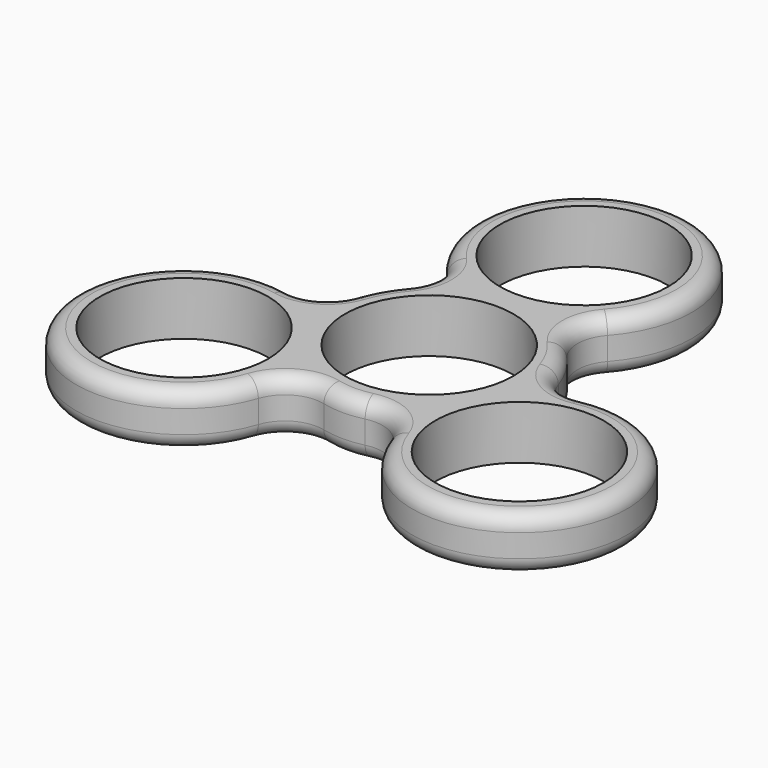
from build123d import *

# Parameters (mm, degrees)
F0_R     = 11
F1_DEPTH = 7
F2_R     = 2


with BuildPart() as f1:
    # F0 (on Top) → F1 (new body)
    with BuildSketch(Plane.XY):
        with BuildLine():
            ThreePointArc((10.487605, 9.370323), (9.223522, 12.694561), (10.489131, 16.018218))
            ThreePointArc((10.489131, 16.018218), (-0.003039, 39.39956), (-10.483131, 16.012801))
            ThreePointArc((-10.483131, 16.012801), (-9.216006, 12.731018), (-10.423922, 9.426984))
            ThreePointArc((-10.423922, 9.426984), (-12.131828, 7.014662), (-13.359285, 4.325872))
            ThreePointArc((-13.359285, 4.325872), (-15.61665, 1.616913), (-19.100401, 1.071355))
            ThreePointArc((-19.100401, 1.071355), (-34.133291, -19.678485), (-8.638072, -17.121633))
            ThreePointArc((-8.638072, -17.121633), (-6.302408, -14.321583), (-2.686439, -13.852144))
            ThreePointArc((-2.686439, -13.852144), (0.017282, -14.188007), (2.722998, -13.868607))
            ThreePointArc((2.722998, -13.868607), (6.319988, -14.351139), (8.643084, -17.139399))
            ThreePointArc((8.643084, -17.139399), (34.132554, -19.679764), (19.117696, 1.074044))
            ThreePointArc((19.117696, 1.074044), (15.607383, 1.639754), (13.36064, 4.395561))
            ThreePointArc((13.36064, 4.395561), (12.177783, 7.029436), (10.487605, 9.370323))
        make_face()
        with Locations((-21.92016, -12.65561)):
            Circle(F0_R, mode=Mode.SUBTRACT)
        with Locations((21.92016, -12.65561)):
            Circle(F0_R, mode=Mode.SUBTRACT)
        Circle(F0_R, mode=Mode.SUBTRACT)
        with Locations((0, 25.31122)):
            Circle(F0_R, mode=Mode.SUBTRACT)
    extrude(amount=F1_DEPTH)

    # F2
    f2_edges = [f1.edges().sort_by_distance(p)[0] for p in [
        (-12.131828, 7.014662, 7),
        (-9.216006, 12.731018, 7),
        (-0.003039, 39.39956, 7),
        (12.177783, 7.029436, 7),
        (15.607383, 1.639754, 7),
        (34.132554, -19.679764, 7),
        (6.319988, -14.351139, 7),
        (0.017282, -14.188007, 7),
        (-6.302408, -14.321583, 7),
        (-34.133291, -19.678485, 7),
        (-15.61665, 1.616913, 7),
        (12.177783, 7.029436, 0),
        (15.607383, 1.639754, 0),
        (0.017282, -14.188007, 0),
        (6.319988, -14.351139, 0),
        (-6.302408, -14.321583, 0),
        (-34.133291, -19.678485, 0),
        (-15.61665, 1.616913, 0),
        (-12.131828, 7.014662, 0),
        (-9.216006, 12.731018, 0),
        (-0.003039, 39.39956, 0),
        (9.223522, 12.694561, 0),
        (34.132554, -19.679764, 0),
    ]]
    fillet(f2_edges, radius=F2_R)


solid = f1.part
